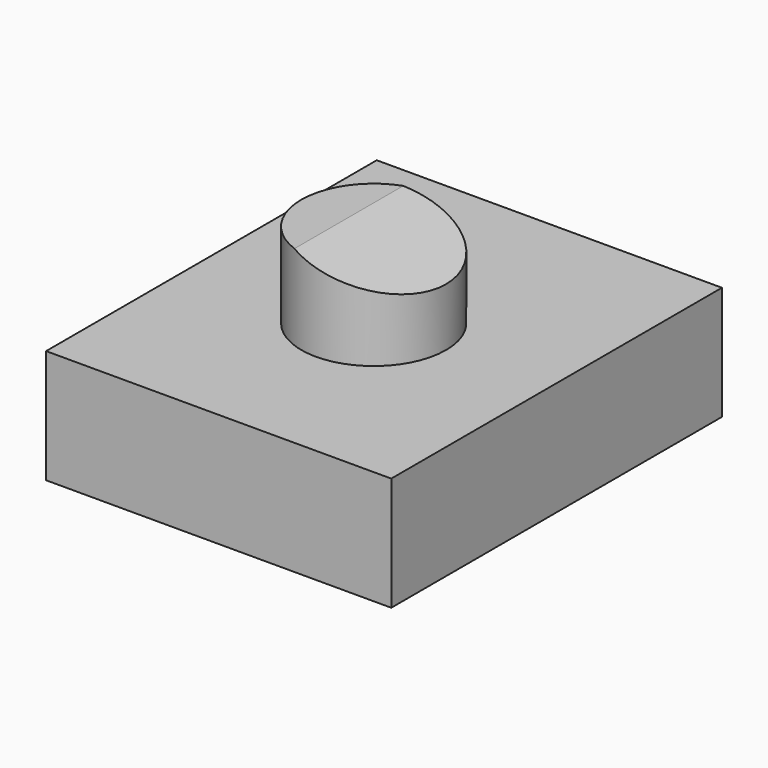
from build123d import *

# Parameters (mm, degrees)
F0_W     = 77.094659
F0_H     = 92.319232
F1_DEPTH = 25.4
F2_R     = 16.165555
F3_DEPTH = 44.45
F5_DEPTH = 114.3


with BuildPart() as f1:
    # F0 (on Top) → F1 (new body)
    with BuildSketch(Plane.XY):
        with Locations((0.485893, 2.267493)):
            Rectangle(F0_W, F0_H)
    extrude(amount=F1_DEPTH)

    # F2 (on Top) → F3 (join)
    with BuildSketch(Plane.XY):
        Circle(F2_R)
    extrude(amount=F3_DEPTH)

    # F4 (on Front) → F5 (cut, symmetric)
    with BuildSketch(Plane.XZ):
        Polygon((39.681073, 63.003831), (-43.892127, 55.229578), (47.131397, 29.639332), align=None)
    extrude(amount=F5_DEPTH, both=True, mode=Mode.SUBTRACT)


solid = f1.part
